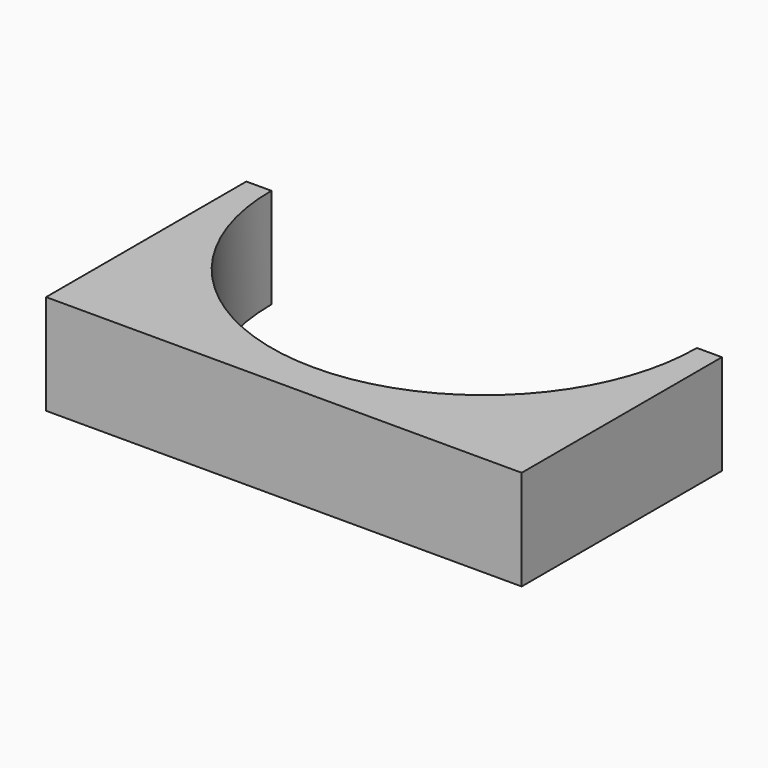
from build123d import *

# Parameters (mm, degrees)
F1_DEPTH = 20
F3_DEPTH = 20


with BuildPart() as f1:
    # F0 (on Top) → F1 (new body)
    with BuildSketch(Plane.XY):
        with BuildLine():
            ThreePointArc((42.5, 0), (0, -42.5), (-42.5, 0))
            Line((-42.5, 0), (-47.5, 0))
            ThreePointArc((-47.5, 0), (0, -47.5), (47.5, 0))
            Line((47.5, 0), (42.5, 0))
        make_face()
    extrude(amount=F1_DEPTH)

    # F2 (on face) → F3 (join)
    with BuildSketch(Plane.XY.offset(20)):
        with BuildLine():
            ThreePointArc((47.5, 0), (0, -47.5), (-47.5, 0))
            Line((-47.5, 0), (-47.5, -50))
            Line((-47.5, -50), (0, -50))
            Line((0, -50), (47.5, -50))
            Line((47.5, -50), (47.5, 0))
        make_face()
    extrude(amount=-F3_DEPTH)


solid = f1.part
